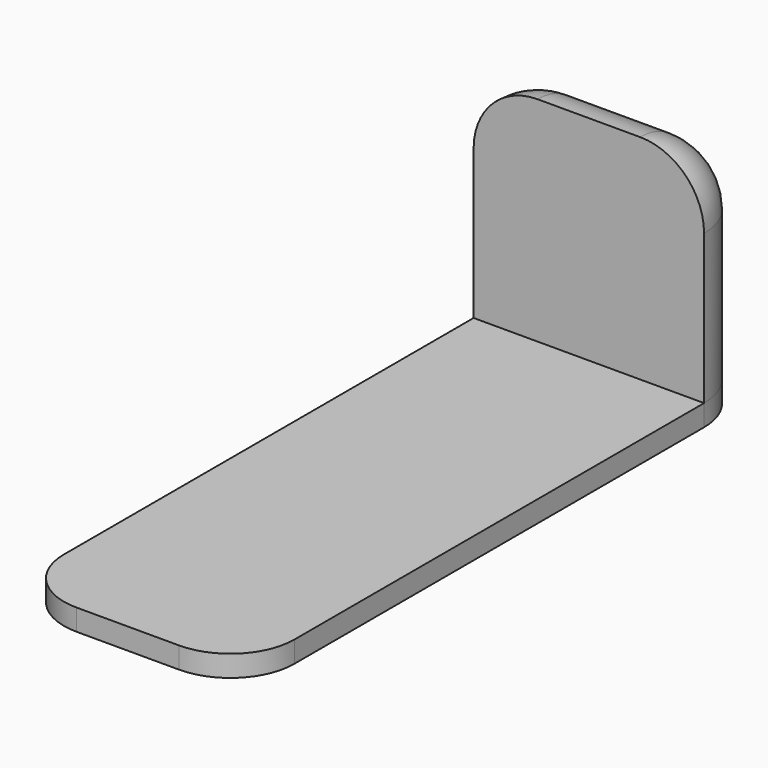
from build123d import *

# Parameters (mm, degrees)
F0_W     = 54
F0_H     = 150
F1_DEPTH = 50
F2_R     = 15
F3_R     = 15
F5_DEPTH = 5
F6_W     = 121.107407
F6_H     = 159.268379
F7_DEPTH = 50.001


with BuildPart() as f1:
    # F0 (on Top) → F1 (new body)
    with BuildSketch(Plane.XY):
        Rectangle(F0_W, F0_H)
    extrude(amount=F1_DEPTH)

    # F2
    f2_edges = [f1.edges().sort_by_distance(p)[0] for p in [
        (27, -75, 25),
        (-27, -75, 25),
        (27, 75, 25),
        (-27, 75, 25),
    ]]
    fillet(f2_edges, radius=F2_R)

    # F3
    f3_edges = [f1.edges().sort_by_distance(p)[0] for p in [
        (-27, 0, 50),
    ]]
    fillet(f3_edges, radius=F3_R)

    # F4 (on face) → F5 (join)
    with BuildSketch(Plane(origin=(0, 0, 0), x_dir=(1, 0, 0), z_dir=(0, 0, -1))):
        with BuildLine():
            ThreePointArc((12, -75), (22.606602, -70.606602), (27, -60))
            Line((27, -60), (27, 60))
            ThreePointArc((27, 60), (22.606602, 70.606602), (12, 75))
            Line((12, 75), (-12, 75))
            ThreePointArc((-12, 75), (-22.606602, 70.606602), (-27, 60))
            Line((-27, 60), (-27, -60))
            ThreePointArc((-27, -60), (-22.606602, -70.606602), (-12, -75))
            Line((-12, -75), (12, -75))
        make_face()
    extrude(amount=F5_DEPTH)

    # F6 (on Top) → F7 (cut, through all)
    with BuildSketch(Plane.XY):
        with Locations((-1.455303, -19.634189)):
            Rectangle(F6_W, F6_H)
    extrude(amount=F7_DEPTH, mode=Mode.SUBTRACT)


solid = f1.part
